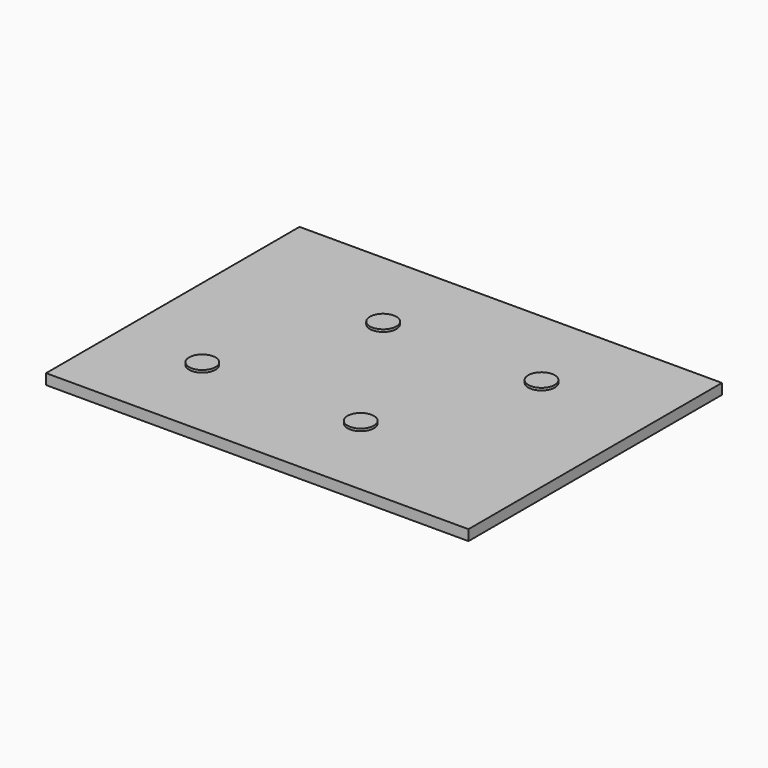
from build123d import *

# Parameters (mm, degrees)
F0_R     = 12.7
F1_DEPTH = 12.446
F0_W     = 406.4
F0_H     = 304.8
F2_DEPTH = 10.16


with BuildPart() as f1:
    # F0 (on Top) → F1 (new body)
    with BuildSketch(Plane.XY):
        with Locations((7.4244239368, 76.3731971383)):
            Circle(F0_R)
    extrude(amount=F1_DEPTH)



with BuildPart() as f1b:
    # F0 (on Top) → F1, piece 2 (new body)
    with BuildSketch(Plane.XY):
        with Locations((159.8244239368, 76.3731971383)):
            Circle(F0_R)
    extrude(amount=F1_DEPTH)


with BuildPart() as f1c:
    # F0 (on Top) → F1, piece 3 (new body)
    with BuildSketch(Plane.XY):
        with Locations((-57.2906026376, -60.2052676494)):
            Circle(F0_R)
    extrude(amount=F1_DEPTH)


with BuildPart() as f1d:
    # F0 (on Top) → F1, piece 4 (new body)
    with BuildSketch(Plane.XY):
        with Locations((95.1093973624, -60.2052676494)):
            Circle(F0_R)
    extrude(amount=F1_DEPTH)


with BuildPart() as f1_1:
    add(f1.part)

    add(f1b.part)  # F2 merges F1b

    add(f1c.part)  # F2 merges F1c

    add(f1d.part)  # F2 merges F1d
    # F0 (on Top) → F2 (join)
    with BuildSketch(Plane.XY):
        with Locations((62.5996744812, 8.4529491862)):
            Rectangle(F0_W, F0_H)
        with Locations((-57.2906026376, -60.2052676494)):
            Circle(F0_R, mode=Mode.SUBTRACT)
        with Locations((95.1093973624, -60.2052676494)):
            Circle(F0_R, mode=Mode.SUBTRACT)
        with Locations((7.4244239368, 76.3731971383)):
            Circle(F0_R, mode=Mode.SUBTRACT)
        with Locations((159.8244239368, 76.3731971383)):
            Circle(F0_R, mode=Mode.SUBTRACT)
    extrude(amount=F2_DEPTH)


solid = f1_1.part
